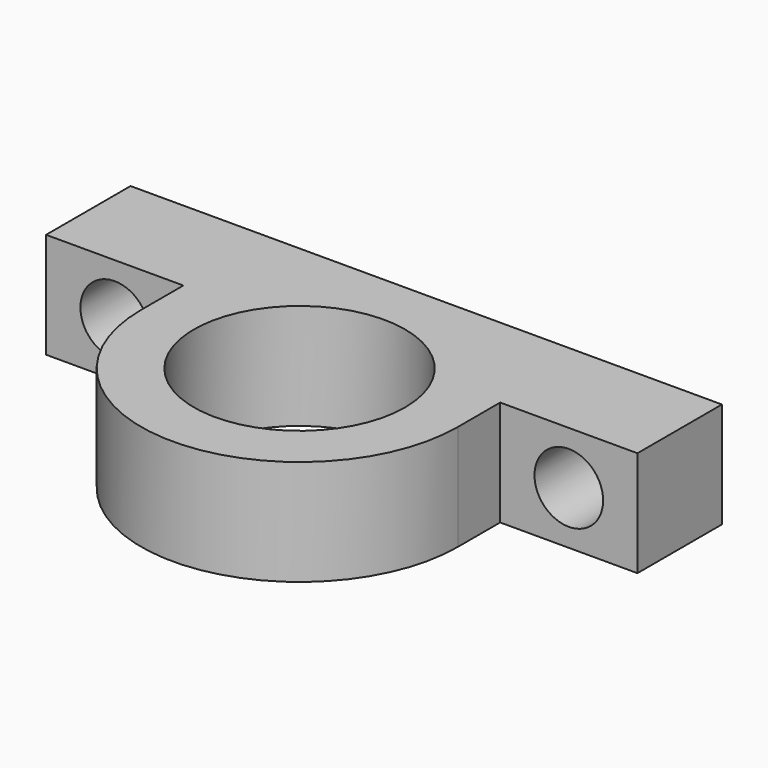
from build123d import *

# Parameters (mm, degrees)
F0_R     = 6.35
F1_DEPTH = 3.175
F2_R     = 2.06375
F3_DEPTH = 6.351
F4_R     = 2.06375
F5_DEPTH = 6.351


with BuildPart() as f1:
    # F0 (on Top) → F1 (new body, symmetric)
    with BuildSketch(Plane.XY):
        with BuildLine():
            Line((-9.525, 3.175), (-9.525, 0))
            ThreePointArc((-9.525, 0), (0, -9.525), (9.525, 0))
            Line((9.525, 0), (9.525, 3.175))
            Line((9.525, 3.175), (17.78, 3.175))
            Line((17.78, 3.175), (17.78, 9.525))
            Line((17.78, 9.525), (-17.78, 9.525))
            Line((-17.78, 9.525), (-17.78, 3.175))
            Line((-17.78, 3.175), (-9.525, 3.175))
        make_face()
        Circle(F0_R, mode=Mode.SUBTRACT)
    extrude(amount=F1_DEPTH, both=True)

    # F2 (on face) → F3 (cut, through all)
    with BuildSketch(Plane.XZ.offset(-3.175)):
        with Locations((-13.6525, 0)):
            Circle(F2_R)
    extrude(amount=-F3_DEPTH, mode=Mode.SUBTRACT)

    # F4 (on face) → F5 (cut, through all)
    with BuildSketch(Plane.XZ.offset(-3.175)):
        with Locations((13.6525, 0)):
            Circle(F4_R)
    extrude(amount=-F5_DEPTH, mode=Mode.SUBTRACT)


solid = f1.part
